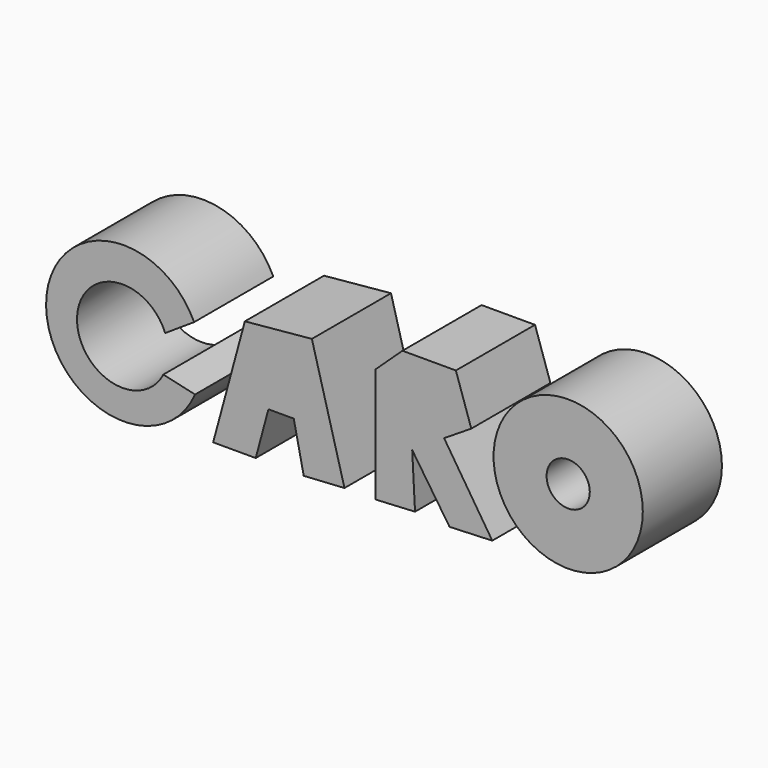
from build123d import *

# Parameters (mm, degrees)
F0_R     = 19.15988
F0_R_2   = 5.548069
F1_DEPTH = 25.4


with BuildPart() as f1:
    # F0 (on Front) → F1 (new body)
    with BuildSketch(Plane.XZ):
        with BuildLine():
            Line((-46.05227, 15.583344), (-38.609479, 20.467674))
            ThreePointArc((-38.609479, 20.467674), (-76.631091, 11.782292), (-38.37689, 4.18657))
            Line((-38.37689, 4.18657), (-46.517443, 6.047267))
            ThreePointArc((-46.517443, 6.047267), (-68.675664, 11.907537), (-46.05227, 15.583344))
        make_face()
        Polygon((14.885581, 31.399276), (7.907966, 24.886832), (7.907966, -4.48475), (18.11673, -3.944964), (17.391772, 9.765899), (26.980119, -4.48475), (37.953, -4.038297), (25.584592, 15.118169), (32.562211, 19.537326), (28.608227, 31.399276), align=None)
        with Locations((57.449043, 15.118169)):
            Circle(F0_R)
        with Locations((57.449043, 15.118169)):
            Circle(F0_R_2, mode=Mode.SUBTRACT)
        Polygon((-8.37314, 26.514944), (-25.584593, 24.886832), (-33.725146, -5.116919), (-22.793546, -5.116919), (-19.537326, 6.977616), (-13.024884, 6.977616), (-10.466424, -5.116919), (0, -4.48475), align=None)
    extrude(amount=F1_DEPTH)


solid = f1.part
